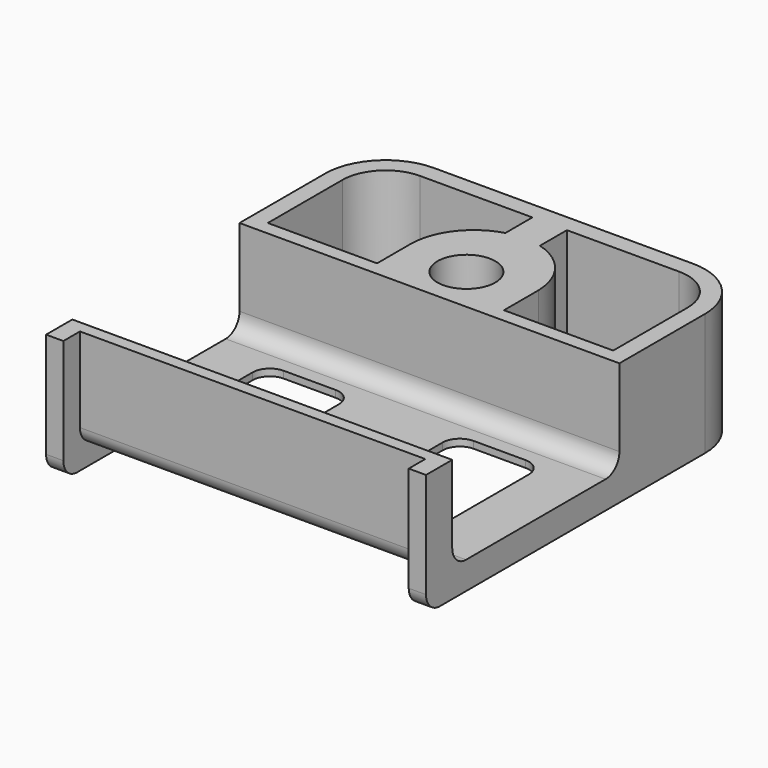
from build123d import *

# Parameters (mm, degrees)
F1_DEPTH = 18.034
F3_W     = 8.509
F3_H     = 8.509
F4_DEPTH = 2.032
F5_R     = 4.2545
F6_DEPTH = 12.954
F8_DEPTH = 55.881
F9_R     = 2.54


with BuildPart() as f1:
    # F0 (on Top) → F1 (new body)
    with BuildSketch(Plane.XY):
        with BuildLine():
            Line((-27.94, 21.209), (-27.94, -30.099))
            Line((-27.94, -30.099), (-25.4, -30.099))
            Line((-25.4, -30.099), (-25.4, 21.209))
            ThreePointArc((-25.4, 21.209), (-23.540128, 25.699128), (-19.05, 27.559))
            Line((-19.05, 27.559), (19.05, 27.559))
            ThreePointArc((19.05, 27.559), (23.540128, 25.699128), (25.4, 21.209))
            Line((25.4, 21.209), (25.4, -30.099))
            Line((25.4, -30.099), (27.94, -30.099))
            Line((27.94, -30.099), (27.94, 21.209))
            ThreePointArc((27.94, 21.209), (25.336179, 27.495179), (19.05, 30.099))
            Line((19.05, 30.099), (-19.05, 30.099))
            ThreePointArc((-19.05, 30.099), (-25.336179, 27.495179), (-27.94, 21.209))
        make_face()
    extrude(amount=F1_DEPTH)

    # F3 (on offset) → F4 (join)
    with BuildSketch(Plane.XY.offset(3.048)):
        with BuildLine():
            Line((-25.4, 7.493), (-25.4, -27.051))
            Line((-25.4, -27.051), (25.4, -27.051))
            Line((25.4, -27.051), (25.4, 7.493))
            Line((25.4, 7.493), (9.3345, 7.493))
            Line((9.3345, 7.493), (9.3345, 13.828916))
            ThreePointArc((9.3345, 13.828916), (7.382472, 19.335437), (2.54, 22.60387))
            Line((2.54, 22.60387), (2.54, 27.559))
            Line((2.54, 27.559), (-2.54, 27.559))
            Line((-2.54, 27.559), (-2.54, 22.60387))
            ThreePointArc((-2.54, 22.60387), (-7.382472, 19.335437), (-9.3345, 13.828916))
            Line((-9.3345, 13.828916), (-9.3345, 7.493))
            Line((-9.3345, 7.493), (-25.4, 7.493))
        make_face()
        with BuildLine():
            ThreePointArc((-20.32, -1.651), (-19.576051, 0.145051), (-17.78, 0.889))
            Line((-17.78, 0.889), (-10.16, 0.889))
            ThreePointArc((-10.16, 0.889), (-8.363949, 0.145051), (-7.62, -1.651))
            Line((-7.62, -1.651), (-7.62, -19.431))
            ThreePointArc((-7.62, -19.431), (-8.363949, -21.227051), (-10.16, -21.971))
            Line((-10.16, -21.971), (-17.78, -21.971))
            ThreePointArc((-17.78, -21.971), (-19.576051, -21.227051), (-20.32, -19.431))
            Line((-20.32, -19.431), (-20.32, -1.651))
        make_face(mode=Mode.SUBTRACT)
        with BuildLine():
            ThreePointArc((7.62, -1.651), (8.363949, 0.145051), (10.16, 0.889))
            Line((10.16, 0.889), (17.78, 0.889))
            ThreePointArc((17.78, 0.889), (19.576051, 0.145051), (20.32, -1.651))
            Line((20.32, -1.651), (20.32, -19.431))
            ThreePointArc((20.32, -19.431), (19.576051, -21.227051), (17.78, -21.971))
            Line((17.78, -21.971), (10.16, -21.971))
            ThreePointArc((10.16, -21.971), (8.363949, -21.227051), (7.62, -19.431))
            Line((7.62, -19.431), (7.62, -1.651))
        make_face(mode=Mode.SUBTRACT)
        with Locations((0, 12.2555)):
            Rectangle(F3_W, F3_H, mode=Mode.SUBTRACT)
    extrude(amount=F4_DEPTH)

    # F5 (on face) → F6 (join, through all)
    with BuildSketch(Plane.XY.offset(5.08)):
        with BuildLine():
            Line((-9.3345, 13.828916), (-9.3345, 7.493))
            Line((-9.3345, 7.493), (-25.4, 7.493))
            Line((-25.4, 7.493), (-25.4, -27.051))
            Line((-25.4, -27.051), (25.4, -27.051))
            Line((25.4, -27.051), (25.4, 7.493))
            Line((25.4, 7.493), (9.3345, 7.493))
            Line((9.3345, 7.493), (9.3345, 13.828916))
            ThreePointArc((9.3345, 13.828916), (7.382472, 19.335437), (2.54, 22.60387))
            Line((2.54, 22.60387), (2.54, 27.559))
            Line((2.54, 27.559), (-2.54, 27.559))
            Line((-2.54, 27.559), (-2.54, 22.60387))
            ThreePointArc((-2.54, 22.60387), (-7.382472, 19.335437), (-9.3345, 13.828916))
        make_face()
        with Locations((0, 12.2555)):
            Circle(F5_R, mode=Mode.SUBTRACT)
    extrude(amount=F6_DEPTH)

    # F7 (on face) → F8 (cut, through all)
    with BuildSketch(Plane.YZ.offset(27.94)):
        with BuildLine():
            Line((5.461, 18.034), (-25.273, 18.034))
            Line((-25.273, 18.034), (-25.273, 6.604))
            ThreePointArc((-25.273, 6.604), (-24.529051, 4.807949), (-22.733, 4.064))
            Line((-22.733, 4.064), (2.921, 4.064))
            ThreePointArc((2.921, 4.064), (4.717051, 4.807949), (5.461, 6.604))
            Line((5.461, 6.604), (5.461, 18.034))
        make_face()
    extrude(amount=-F8_DEPTH, mode=Mode.SUBTRACT)

    # F9
    f9_edges = [f1.edges().sort_by_distance(p)[0] for p in [
        (-26.67, -30.099, 0),
        (26.67, -30.099, 0),
        (0, -27.051, 3.048),
    ]]
    fillet(f9_edges, radius=F9_R)


solid = f1.part
